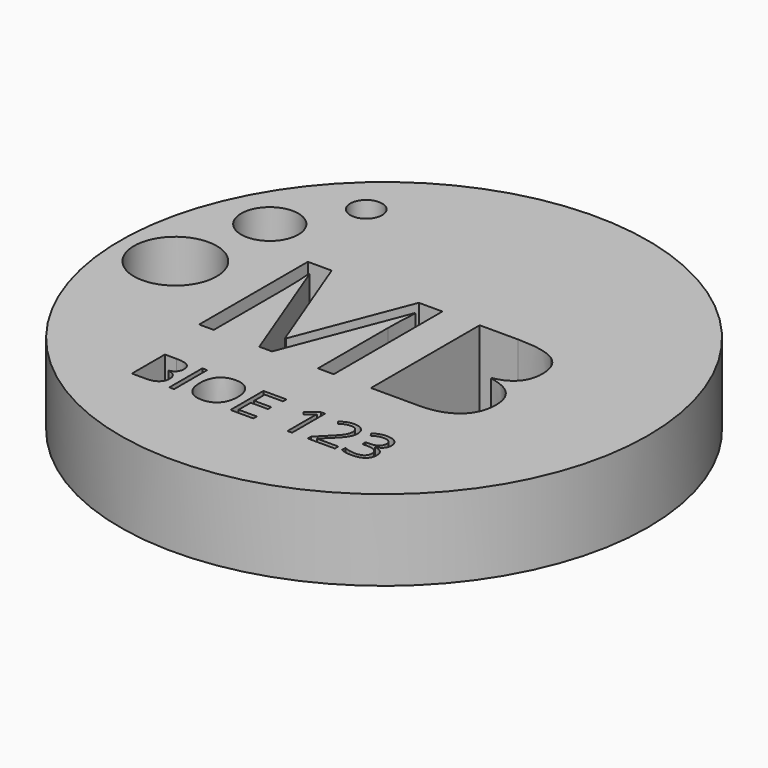
from build123d import *

# Parameters (mm, degrees)
F0_R     = 20.75
F0_W     = 0.376834998
F0_H     = 3.2424841914
F0_R_2   = 3.25
F0_R_3   = 2.25
F0_R_4   = 1.25
F1_DEPTH = 6.35


with BuildPart() as f1:
    # F0 (on Top) → F1 (new body)
    with BuildSketch(Plane.XY):
        with Locations((-0.0457768192, 0.0405721698)):
            Circle(F0_R)
        with BuildLine():
            Line((-9.1895223888, -13.3113889024), (-9.1895223888, -10.068904711))
            Line((-9.1895223888, -10.068904711), (-8.2733378646, -10.068904711))
            add(Edge.make_bspline(
                [(-8.2733378646, -10.068904711), (-7.6282474444, -10.068904711), (-7.3397664149, -10.2619350677)],
                knots=[0, 0, 0, 1, 1, 1], degree=2))
            add(Edge.make_bspline(
                [(-7.3397664149, -10.2619350677), (-7.0512853854, -10.4549654245), (-7.0512853854, -10.8715419665)],
                knots=[0, 0, 0, 1, 1, 1], degree=2))
            add(Edge.make_bspline(
                [(-7.0512853854, -10.8715419665), (-7.0512853854, -11.1603778312), (-7.2120257376, -11.3477308245)],
                knots=[0, 0, 0, 1, 1, 1], degree=2))
            add(Edge.make_bspline(
                [(-7.2120257376, -11.3477308245), (-7.3727660899, -11.5350838179), (-7.6814727266, -11.5904381113)],
                knots=[0, 0, 0, 1, 1, 1], degree=2))
            Line((-7.6814727266, -11.5904381113), (-7.6814727266, -11.6124378947))
            add(Edge.make_bspline(
                [(-7.6814727266, -11.6124378947), (-6.9427058097, -11.7387592311), (-6.9427058097, -12.3888173443)],
                knots=[0, 0, 0, 1, 1, 1], degree=2))
            add(Edge.make_bspline(
                [(-6.9427058097, -12.3888173443), (-6.9427058097, -12.823135647), (-7.2365093674, -13.0672622747)],
                knots=[0, 0, 0, 1, 1, 1], degree=2))
            add(Edge.make_bspline(
                [(-7.2365093674, -13.0672622747), (-7.5303129252, -13.3113889024), (-8.0583077245, -13.3113889024)],
                knots=[0, 0, 0, 1, 1, 1], degree=2))
            Line((-8.0583077245, -13.3113889024), (-9.1895223888, -13.3113889024))
        make_face(mode=Mode.SUBTRACT)
        with Locations((-6.0581016196, -11.6901468067)):
            Rectangle(F0_W, F0_H, mode=Mode.SUBTRACT)
        with BuildLine():
            add(Edge.make_bspline(
                [(-2.5583618976, -10.4613524584), (-2.1659141502, -10.9048964767), (-2.1659141502, -11.6855339489)],
                knots=[0, 0, 0, 1, 1, 1], degree=2))
            add(Edge.make_bspline(
                [(-2.1659141502, -11.6855339489), (-2.1659141502, -12.4640424098), (-2.5597812384, -12.9100702746)],
                knots=[0, 0, 0, 1, 1, 1], degree=2))
            add(Edge.make_bspline(
                [(-2.5597812384, -12.9100702746), (-2.9536483267, -13.3560981394), (-3.6540930404, -13.3560981394)],
                knots=[0, 0, 0, 1, 1, 1], degree=2))
            add(Edge.make_bspline(
                [(-3.6540930404, -13.3560981394), (-4.3701505035, -13.3560981394), (-4.759404734, -12.9178766493)],
                knots=[0, 0, 0, 1, 1, 1], degree=2))
            add(Edge.make_bspline(
                [(-4.759404734, -12.9178766493), (-5.1486589645, -12.4796551592), (-5.1486589645, -11.6812759263)],
                knots=[0, 0, 0, 1, 1, 1], degree=2))
            add(Edge.make_bspline(
                [(-5.1486589645, -11.6812759263), (-5.1486589645, -10.8892837272), (-4.7583402284, -10.4535460836)],
                knots=[0, 0, 0, 1, 1, 1], degree=2))
            add(Edge.make_bspline(
                [(-4.7583402284, -10.4535460836), (-4.3680214923, -10.01780844), (-3.6498350178, -10.01780844)],
                knots=[0, 0, 0, 1, 1, 1], degree=2))
            add(Edge.make_bspline(
                [(-3.6498350178, -10.01780844), (-2.950809645, -10.01780844), (-2.5583618976, -10.4613524584)],
                knots=[0, 0, 0, 1, 1, 1], degree=2))
        make_face(mode=Mode.SUBTRACT)
        Polygon((0.3640609302, -12.9742954485), (0.3640609302, -13.3113889024), (-1.4434696532, -13.3113889024), (-1.4434696532, -10.068904711), (0.3640609302, -10.068904711), (0.3640609302, -10.4038691536), (-1.0666346552, -10.4038691536), (-1.0666346552, -11.4485040255), (0.2774811379, -11.4485040255), (0.2774811379, -11.7813394568), (-1.0666346552, -11.7813394568), (-1.0666346552, -12.9742954485), align=None, mode=Mode.SUBTRACT)
        with Locations((-16.4391731507, 0.0204943487)):
            Circle(F0_R_2, mode=Mode.SUBTRACT)
        with BuildLine():
            Line((-4.3096196523, -5.6420438592), (-5.3101277447, -5.6420438592))
            Line((-5.3101277447, -5.6420438592), (-8.9334631263, 3.8253808474))
            Line((-8.9334631263, 3.8253808474), (-8.9919040195, 3.8253808474))
            add(Edge.make_bspline(
                [(-8.9919040195, 3.8253808474), (-8.8890480474, 2.7009780613), (-8.8890480474, 1.1511255723)],
                knots=[0, 0, 0, 1, 1, 1], degree=2))
            Line((-8.8890480474, 1.1511255723), (-8.8890480474, -5.6420438592))
            Line((-8.8890480474, -5.6420438592), (-10.0368271908, -5.6420438592))
            Line((-10.0368271908, -5.6420438592), (-10.0368271908, 5.0386137913))
            Line((-10.0368271908, 5.0386137913), (-8.1667186068, 5.0386137913))
            Line((-8.1667186068, 5.0386137913), (-4.7841597055, -3.7719352751))
            Line((-4.7841597055, -3.7719352751), (-4.7257188122, -3.7719352751))
            Line((-4.7257188122, -3.7719352751), (-1.3151082821, 5.0386137913))
            Line((-1.3151082821, 5.0386137913), (0.5409744875, 5.0386137913))
            Line((0.5409744875, 5.0386137913), (0.5409744875, -5.6420438592))
            Line((0.5409744875, -5.6420438592), (-0.7003100851, -5.6420438592))
            Line((-0.7003100851, -5.6420438592), (-0.7003100851, 1.23995573))
            add(Edge.make_bspline(
                [(-0.7003100851, 1.23995573), (-0.7003100851, 2.4227994094), (-0.597454113, 3.8113550331)],
                knots=[0, 0, 0, 1, 1, 1], degree=2))
            Line((-0.597454113, 3.8113550331), (-0.6558950063, 3.8113550331))
            Line((-0.6558950063, 3.8113550331), (-4.3096196523, -5.6420438592))
        make_face(mode=Mode.SUBTRACT)
        with BuildLine():
            Line((3.402160038, -10.068904711), (3.402160038, -13.3113889024))
            Line((3.402160038, -13.3113889024), (3.0430668008, -13.3113889024))
            Line((3.0430668008, -13.3113889024), (3.0430668008, -11.0007019846))
            add(Edge.make_bspline(
                [(3.0430668008, -11.0007019846), (3.0430668008, -10.7118661199), (3.0608085615, -10.4549654245)],
                knots=[0, 0, 0, 1, 1, 1], degree=2))
            add(Edge.make_bspline(
                [(3.0608085615, -10.4549654245), (3.0146799836, -10.5018036728), (2.9568418436, -10.5525451085)],
                knots=[0, 0, 0, 1, 1, 1], degree=2))
            add(Edge.make_bspline(
                [(2.9568418436, -10.5525451085), (2.8990037036, -10.6032865442), (2.4292018794, -10.9850892352)],
                knots=[0, 0, 0, 1, 1, 1], degree=2))
            Line((2.4292018794, -10.9850892352), (2.2340425114, -10.7324465623))
            Line((2.2340425114, -10.7324465623), (3.0920340604, -10.068904711))
            Line((3.0920340604, -10.068904711), (3.402160038, -10.068904711))
        make_face(mode=Mode.SUBTRACT)
        with BuildLine():
            Line((6.7667075432, -12.9700374259), (6.7667075432, -13.3113889024))
            Line((6.7667075432, -13.3113889024), (4.6355672441, -13.3113889024))
            Line((4.6355672441, -13.3113889024), (4.6355672441, -12.9941662205))
            Line((4.6355672441, -12.9941662205), (5.4893007705, -12.1361746715))
            add(Edge.make_bspline(
                [(5.4893007705, -12.1361746715), (5.8796195066, -11.7408882424), (6.0038118318, -11.5723415154)],
                knots=[0, 0, 0, 1, 1, 1], degree=2))
            add(Edge.make_bspline(
                [(6.0038118318, -11.5723415154), (6.1280041569, -11.4037947884), (6.1901003194, -11.2441189419)],
                knots=[0, 0, 0, 1, 1, 1], degree=2))
            add(Edge.make_bspline(
                [(6.1901003194, -11.2441189419), (6.252196482, -11.0844430953), (6.252196482, -10.9006384541)],
                knots=[0, 0, 0, 1, 1, 1], degree=2))
            add(Edge.make_bspline(
                [(6.252196482, -10.9006384541), (6.252196482, -10.640899077), (6.0946496467, -10.4890296051)],
                knots=[0, 0, 0, 1, 1, 1], degree=2))
            add(Edge.make_bspline(
                [(6.0946496467, -10.4890296051), (5.9371028114, -10.3371601332), (5.6574926623, -10.3371601332)],
                knots=[0, 0, 0, 1, 1, 1], degree=2))
            add(Edge.make_bspline(
                [(5.6574926623, -10.3371601332), (5.4559462604, -10.3371601332), (5.2749803009, -10.4038691536)],
                knots=[0, 0, 0, 1, 1, 1], degree=2))
            add(Edge.make_bspline(
                [(5.2749803009, -10.4038691536), (5.0940143414, -10.4705781739), (4.8725971675, -10.64586677)],
                knots=[0, 0, 0, 1, 1, 1], degree=2))
            Line((4.8725971675, -10.64586677), (4.6774377994, -10.3953531084))
            add(Edge.make_bspline(
                [(4.6774377994, -10.3953531084), (5.1252398403, -10.0227761331), (5.6532346397, -10.0227761331)],
                knots=[0, 0, 0, 1, 1, 1], degree=2))
            add(Edge.make_bspline(
                [(5.6532346397, -10.0227761331), (6.1102623962, -10.0227761331), (6.3696469381, -10.2566125395)],
                knots=[0, 0, 0, 1, 1, 1], degree=2))
            add(Edge.make_bspline(
                [(6.3696469381, -10.2566125395), (6.62903148, -10.490448946), (6.62903148, -10.8850257046)],
                knots=[0, 0, 0, 1, 1, 1], degree=2))
            add(Edge.make_bspline(
                [(6.62903148, -10.8850257046), (6.62903148, -11.1937323414), (6.4558718952, -11.4953422738)],
                knots=[0, 0, 0, 1, 1, 1], degree=2))
            add(Edge.make_bspline(
                [(6.4558718952, -11.4953422738), (6.2827123105, -11.7969522063), (5.8086524637, -12.2582379853)],
                knots=[0, 0, 0, 1, 1, 1], degree=2))
            Line((5.8086524637, -12.2582379853), (5.0989820344, -12.9522956651))
            Line((5.0989820344, -12.9522956651), (5.0989820344, -12.9700374259))
            Line((5.0989820344, -12.9700374259), (6.7667075432, -12.9700374259))
        make_face(mode=Mode.SUBTRACT)
        with BuildLine():
            add(Edge.make_bspline(
                [(8.9794599418, -10.2388707788), (9.2413283302, -10.4549654245), (9.2413283302, -10.8318004224)],
                knots=[0, 0, 0, 1, 1, 1], degree=2))
            add(Edge.make_bspline(
                [(9.2413283302, -10.8318004224), (9.2413283302, -11.1426360705), (9.0671042398, -11.3399244498)],
                knots=[0, 0, 0, 1, 1, 1], degree=2))
            add(Edge.make_bspline(
                [(9.0671042398, -11.3399244498), (8.8928801494, -11.5372128292), (8.5735284562, -11.6039218495)],
                knots=[0, 0, 0, 1, 1, 1], degree=2))
            Line((8.5735284562, -11.6039218495), (8.5735284562, -11.6216636102))
            add(Edge.make_bspline(
                [(8.5735284562, -11.6216636102), (8.9638471923, -11.6699211994), (9.1522646913, -11.8696934253)],
                knots=[0, 0, 0, 1, 1, 1], degree=2))
            add(Edge.make_bspline(
                [(9.1522646913, -11.8696934253), (9.3406821903, -12.0694656511), (9.3406821903, -12.3930753669)],
                knots=[0, 0, 0, 1, 1, 1], degree=2))
            add(Edge.make_bspline(
                [(9.3406821903, -12.3930753669), (9.3406821903, -12.8564901572), (9.0192014858, -13.1062941483)],
                knots=[0, 0, 0, 1, 1, 1], degree=2))
            add(Edge.make_bspline(
                [(9.0192014858, -13.1062941483), (8.6977207813, -13.3560981394), (8.1058556433, -13.3560981394)],
                knots=[0, 0, 0, 1, 1, 1], degree=2))
            add(Edge.make_bspline(
                [(8.1058556433, -13.3560981394), (7.8482452775, -13.3560981394), (7.634279643, -13.3170662658)],
                knots=[0, 0, 0, 1, 1, 1], degree=2))
            add(Edge.make_bspline(
                [(7.634279643, -13.3170662658), (7.4203140086, -13.2780343922), (7.2187676067, -13.1808095434)],
                knots=[0, 0, 0, 1, 1, 1], degree=2))
            Line((7.2187676067, -13.1808095434), (7.2187676067, -12.8302323513))
            add(Edge.make_bspline(
                [(7.2187676067, -12.8302323513), (7.4295397242, -12.9345539044), (7.6679889884, -12.9888436923)],
                knots=[0, 0, 0, 1, 1, 1], degree=2))
            add(Edge.make_bspline(
                [(7.6679889884, -12.9888436923), (7.9064382527, -13.0431334801), (8.1193393815, -13.0431334801)],
                knots=[0, 0, 0, 1, 1, 1], degree=2))
            add(Edge.make_bspline(
                [(8.1193393815, -13.0431334801), (8.9595891697, -13.0431334801), (8.9595891697, -12.3845593217)],
                knots=[0, 0, 0, 1, 1, 1], degree=2))
            add(Edge.make_bspline(
                [(8.9595891697, -12.3845593217), (8.9595891697, -11.7941135246), (8.0327595891, -11.7941135246)],
                knots=[0, 0, 0, 1, 1, 1], degree=2))
            Line((8.0327595891, -11.7941135246), (7.7134078959, -11.7941135246))
            Line((7.7134078959, -11.7941135246), (7.7134078959, -11.4776005131))
            Line((7.7134078959, -11.4776005131), (8.0370176117, -11.4776005131))
            add(Edge.make_bspline(
                [(8.0370176117, -11.4776005131), (8.4159816209, -11.4776005131), (8.6377536301, -11.3101182918)],
                knots=[0, 0, 0, 1, 1, 1], degree=2))
            add(Edge.make_bspline(
                [(8.6377536301, -11.3101182918), (8.8595256392, -11.1426360705), (8.8595256392, -10.8452841606)],
                knots=[0, 0, 0, 1, 1, 1], degree=2))
            add(Edge.make_bspline(
                [(8.8595256392, -10.8452841606), (8.8595256392, -10.6082542372), (8.6966562757, -10.4727071852)],
                knots=[0, 0, 0, 1, 1, 1], degree=2))
            add(Edge.make_bspline(
                [(8.6966562757, -10.4727071852), (8.5337869122, -10.3371601332), (8.254176763, -10.3371601332)],
                knots=[0, 0, 0, 1, 1, 1], degree=2))
            add(Edge.make_bspline(
                [(8.254176763, -10.3371601332), (8.0412756342, -10.3371601332), (7.8528581353, -10.3949982732)],
                knots=[0, 0, 0, 1, 1, 1], degree=2))
            add(Edge.make_bspline(
                [(7.8528581353, -10.3949982732), (7.6644406363, -10.4528364132), (7.4224430199, -10.6082542372)],
                knots=[0, 0, 0, 1, 1, 1], degree=2))
            Line((7.4224430199, -10.6082542372), (7.2365093674, -10.359869587))
            add(Edge.make_bspline(
                [(7.2365093674, -10.359869587), (7.4359267581, -10.2023227517), (7.6963758056, -10.1125494424)],
                knots=[0, 0, 0, 1, 1, 1], degree=2))
            add(Edge.make_bspline(
                [(7.6963758056, -10.1125494424), (7.9568248532, -10.0227761331), (8.2456607179, -10.0227761331)],
                knots=[0, 0, 0, 1, 1, 1], degree=2))
            add(Edge.make_bspline(
                [(8.2456607179, -10.0227761331), (8.7175915534, -10.0227761331), (8.9794599418, -10.2388707788)],
                knots=[0, 0, 0, 1, 1, 1], degree=2))
        make_face(mode=Mode.SUBTRACT)
        with BuildLine():
            Line((3.4700320572, -5.6420438592), (3.4700320572, 5.0386137913))
            Line((3.4700320572, 5.0386137913), (6.4879197847, 5.0386137913))
            add(Edge.make_bspline(
                [(6.4879197847, 5.0386137913), (8.6128306633, 5.0386137913), (9.5630795876, 4.4027768728)],
                knots=[0, 0, 0, 1, 1, 1], degree=2))
            add(Edge.make_bspline(
                [(9.5630795876, 4.4027768728), (10.5133285118, 3.7669399542), (10.5133285118, 2.3947477807)],
                knots=[0, 0, 0, 1, 1, 1], degree=2))
            add(Edge.make_bspline(
                [(10.5133285118, 2.3947477807), (10.5133285118, 1.4433300386), (9.983854019, 0.8261942058)],
                knots=[0, 0, 0, 1, 1, 1], degree=2))
            add(Edge.make_bspline(
                [(9.983854019, 0.8261942058), (9.4543795261, 0.2090583731), (8.4375079835, 0.0267227862)],
                knots=[0, 0, 0, 1, 1, 1], degree=2))
            Line((8.4375079835, 0.0267227862), (8.4375079835, -0.0457439215))
            add(Edge.make_bspline(
                [(8.4375079835, -0.0457439215), (10.8709867785, -0.4618430814), (10.8709867785, -2.6031174101)],
                knots=[0, 0, 0, 1, 1, 1], degree=2))
            add(Edge.make_bspline(
                [(10.8709867785, -2.6031174101), (10.8709867785, -4.0337504769), (9.9032055863, -4.837897168)],
                knots=[0, 0, 0, 1, 1, 1], degree=2))
            add(Edge.make_bspline(
                [(9.9032055863, -4.837897168), (8.935424394, -5.6420438592), (7.1962234109, -5.6420438592)],
                knots=[0, 0, 0, 1, 1, 1], degree=2))
            Line((7.1962234109, -5.6420438592), (3.4700320572, -5.6420438592))
        make_face(mode=Mode.SUBTRACT)
        with Locations((-14.9958868995, 7.4961635141)):
            Circle(F0_R_3, mode=Mode.SUBTRACT)
        with Locations((-11.5940649857, 12.7213783894)):
            Circle(F0_R_4, mode=Mode.SUBTRACT)
    extrude(amount=F1_DEPTH)


solid = f1.part
